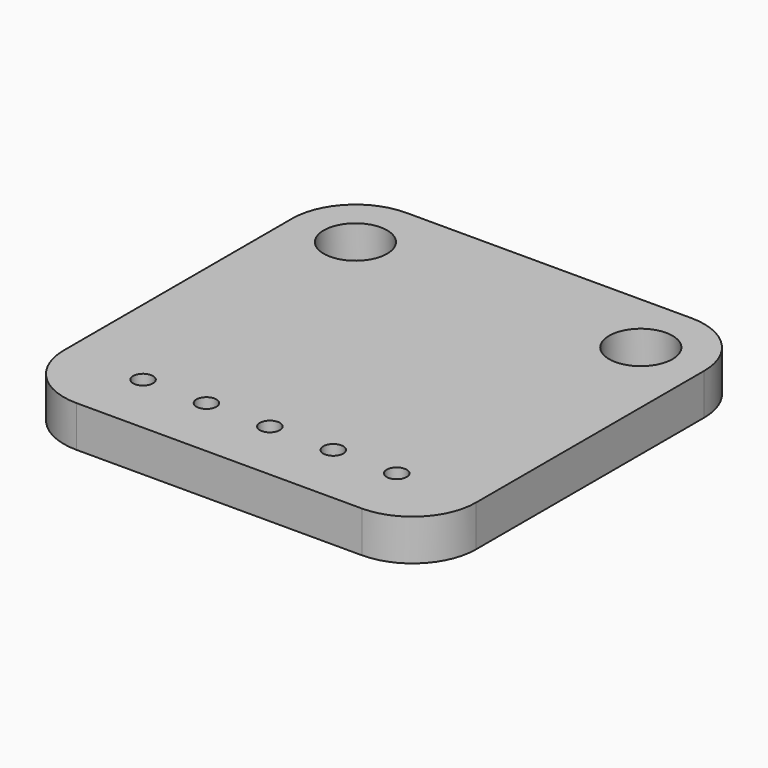
from build123d import *

# Parameters (mm, degrees)
PAD023_DEPTH           = 1.65
SKETCH059_R            = 1.27
POCKET033_DEPTH        = 1.651
SKETCH057_R            = 0.4
POCKET032_DEPTH        = 1.651
LINEARPATTERN006_COUNT = 3
LINEARPATTERN006_PITCH = 2.54
LINEARPATTERN007_COUNT = 3
LINEARPATTERN007_PITCH = 2.54


with BuildPart() as part:
    # Sketch060 → Pad023 (new body)
    with BuildSketch(Plane.XY):
        with BuildLine():
            Line((-5.715, 8.255), (5.715, 8.255))
            ThreePointArc((8.255, 5.715), (7.511051, 7.511051), (5.715, 8.255))
            Line((8.255, 5.715), (8.255, -5.715))
            ThreePointArc((5.715, -8.255), (7.511051, -7.511051), (8.255, -5.715))
            Line((5.715, -8.255), (-5.715, -8.255))
            ThreePointArc((-8.255, -5.715), (-7.511051, -7.511051), (-5.715, -8.255))
            Line((-8.255, -5.715), (-8.255, 5.715))
            ThreePointArc((-5.715, 8.255), (-7.511051, 7.511051), (-8.255, 5.715))
        make_face()
    extrude(amount=-PAD023_DEPTH)

    # Sketch059 → Pocket033 (cut, through all)
    with BuildSketch(Plane.XY):
        with Locations((-5.715, 5.715)):
            Circle(SKETCH059_R)
        with Locations((5.715, 5.715)):
            Circle(SKETCH059_R)
    extrude(amount=-POCKET033_DEPTH, mode=Mode.SUBTRACT)

    # Sketch057 → Pocket032 (cut, through all)
    with BuildSketch(Plane.XY):
        with Locations((0, -5.715)):
            Circle(SKETCH057_R)
    pocket032 = extrude(amount=-POCKET032_DEPTH, mode=Mode.SUBTRACT)

    # LinearPattern006: Pocket032 ×3
    with Locations(*[(i * LINEARPATTERN006_PITCH, 0, 0) for i in range(1, LINEARPATTERN006_COUNT)]):
        add(pocket032, mode=Mode.SUBTRACT)

    # LinearPattern007: Pocket032 ×3
    with Locations(*[(-i * LINEARPATTERN007_PITCH, 0, 0) for i in range(1, LINEARPATTERN007_COUNT)]):
        add(pocket032, mode=Mode.SUBTRACT)


solid = part.part
